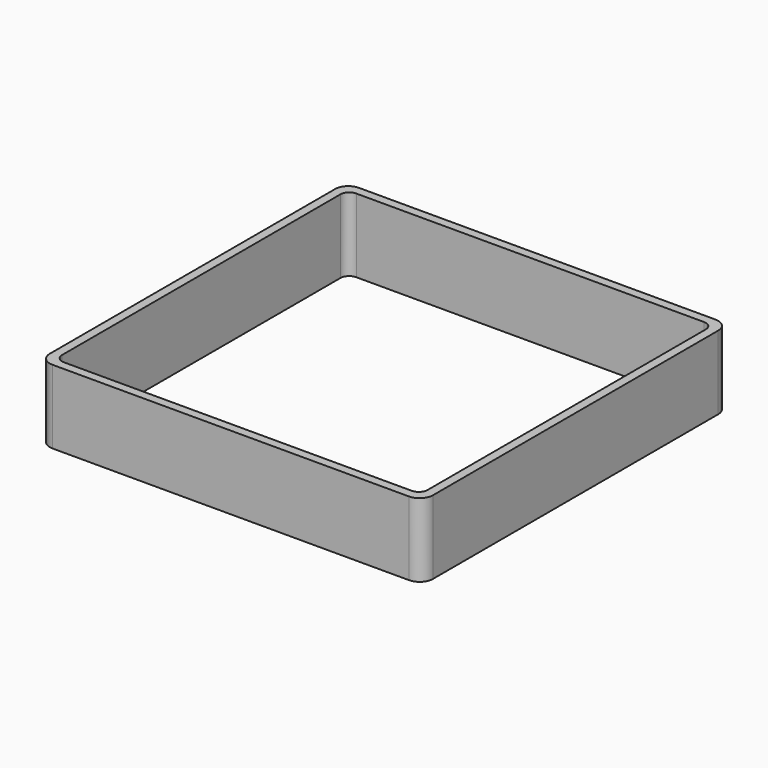
from build123d import *

# Parameters (mm, degrees)
EXTRUDE_DEPTH = 50


with BuildPart() as part:
    # Sketch → Extrude (new body)
    with BuildSketch(Plane.XY):
        with BuildLine():
            Line((-121, 130), (121, 130))
            ThreePointArc((130, 121), (127.363961, 127.363961), (121, 130))
            Line((130, 121), (130, -121))
            ThreePointArc((121, -130), (127.363961, -127.363961), (130, -121))
            Line((121, -130), (-121, -130))
            ThreePointArc((-130, -121), (-127.363961, -127.363961), (-121, -130))
            Line((-130, -121), (-130, 121))
            ThreePointArc((-121, 130), (-127.363961, 127.363961), (-130, 121))
        make_face()
        with BuildLine():
            Line((-118, 124), (118, 124))
            ThreePointArc((124, 118), (122.242641, 122.242641), (118, 124))
            Line((124, 118), (124, -118))
            ThreePointArc((118, -124), (122.242641, -122.242641), (124, -118))
            Line((118, -124), (-118, -124))
            ThreePointArc((-124, -118), (-122.242641, -122.242641), (-118, -124))
            Line((-124, -118), (-124, 118))
            ThreePointArc((-118, 124), (-122.242641, 122.242641), (-124, 118))
        make_face(mode=Mode.SUBTRACT)
    extrude(amount=EXTRUDE_DEPTH)


solid = part.part
